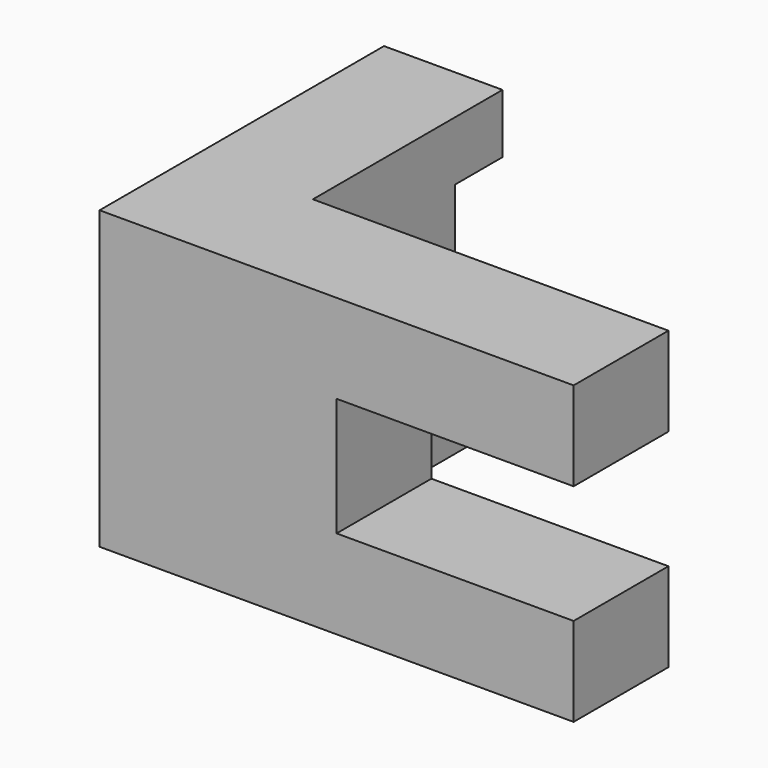
from build123d import *

# Parameters (mm, degrees)
F1_DEPTH = 50.8
F2_W     = 50.8
F2_H     = 127
F3_DEPTH = 76.2
F4_W     = 50.8
F4_H     = 25.4
F5_DEPTH = 25.4


with BuildPart() as f1:
    # F0 (on Front) → F1 (new body)
    with BuildSketch(Plane.XZ):
        Polygon((100.034788, 58.857108), (-103.165212, 58.857108), (-103.165212, -68.142892), (100.034788, -68.142892), (100.034788, -30.042892), (-1.565212, -30.042892), (-1.565212, 20.757108), (100.034788, 20.757108), align=None)
    extrude(amount=F1_DEPTH)

    # F2 (on face) → F3 (join)
    with BuildSketch(Plane(origin=(0, 0, 0), x_dir=(-1, 0, 0), z_dir=(0, 1, 0))):
        with Locations((77.765212, -4.642892)):
            Rectangle(F2_W, F2_H)
    extrude(amount=F3_DEPTH)

    # F4 (on face) → F5 (join)
    with BuildSketch(Plane(origin=(0, 76.2, 0), x_dir=(-1, 0, 0), z_dir=(0, 1, 0))):
        with Locations((77.765212, 46.157108)):
            Rectangle(F4_W, F4_H)
        with Locations((77.765212, -55.442892)):
            Rectangle(F4_W, F4_H)
    extrude(amount=F5_DEPTH)


solid = f1.part
